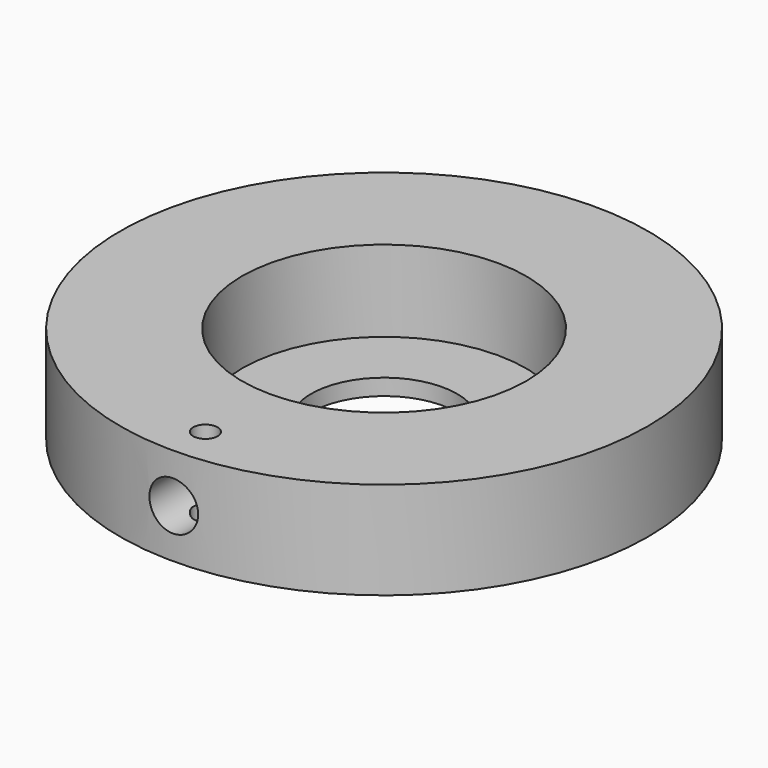
from build123d import *

# Parameters (mm, degrees)
F0_R     = 32.5
F1_DEPTH = 12
F2_R     = 17.5
F3_DEPTH = 10
F4_R     = 9
F5_DEPTH = 2000
F7_D     = 6
F7_DEPTH = 32.501
F9_D     = 3


with BuildPart() as f1:
    # F0 (on Top) → F1 (new body)
    with BuildSketch(Plane.XY):
        Circle(F0_R)
    extrude(amount=F1_DEPTH)

    # F2 (on face) → F3 (cut)
    with BuildSketch(Plane.XY.offset(12)):
        Circle(F2_R)
    extrude(amount=-F3_DEPTH, mode=Mode.SUBTRACT)

    # F4 (on face) → F5 (cut)
    with BuildSketch(Plane.XY.offset(2)):
        Circle(F4_R)
    extrude(amount=-F5_DEPTH, mode=Mode.SUBTRACT)

    # F7 (through all, one way)
    with BuildSketch(Plane(origin=(0, 0, 0), x_dir=(1, 0, 0), z_dir=(0, 1, 0))):
        with Locations((0, -6)):
            Circle(F7_D / 2)
    extrude(amount=-F7_DEPTH, mode=Mode.SUBTRACT)

    # F9 (through all)
    with Locations(Plane.XY.offset(12)):
        with Locations((0, -27.5)):
            Hole(F9_D / 2)


solid = f1.part
